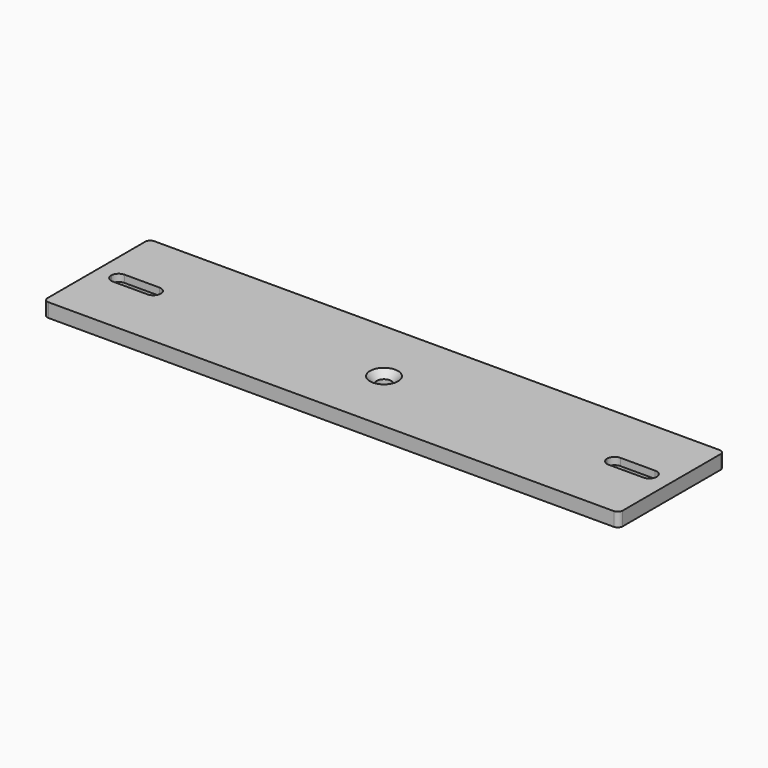
from build123d import *

# Parameters (mm, degrees)
F0_W     = 174
F0_H     = 40
F0_R     = 2.25
F1_DEPTH = 4.2
F3_DEPTH = 2
F4_SIZE  = 2
F5_R     = 1.5


with BuildPart() as f1:
    # F0 (on Top) → F1 (new body)
    with BuildSketch(Plane.XY):
        with Locations((87, 20)):
            Rectangle(F0_W, F0_H)
        with BuildLine():
            ThreePointArc((4.5, 20), (5.15901, 21.59099), (6.75, 22.25))
            Line((6.75, 22.25), (17.25, 22.25))
            ThreePointArc((17.25, 22.25), (18.84099, 21.59099), (19.5, 20))
            ThreePointArc((19.5, 20), (18.84099, 18.40901), (17.25, 17.75))
            Line((17.25, 17.75), (6.75, 17.75))
            ThreePointArc((6.75, 17.75), (5.15901, 18.40901), (4.5, 20))
        make_face(mode=Mode.SUBTRACT)
        with Locations((87, 20)):
            Circle(F0_R, mode=Mode.SUBTRACT)
        with BuildLine():
            Line((156.75, 22.25), (167.25, 22.25))
            ThreePointArc((167.25, 22.25), (168.84099, 21.59099), (169.5, 20))
            ThreePointArc((169.5, 20), (168.84099, 18.40901), (167.25, 17.75))
            Line((167.25, 17.75), (156.75, 17.75))
            ThreePointArc((156.75, 17.75), (155.15901, 18.40901), (154.5, 20))
            ThreePointArc((154.5, 20), (155.15901, 21.59099), (156.75, 22.25))
        make_face(mode=Mode.SUBTRACT)
    extrude(amount=F1_DEPTH)

    # F2 (on Top) → F3 (cut)
    with BuildSketch(Plane.XY):
        with BuildLine():
            ThreePointArc((6.75, 23.95), (2.8, 20), (6.75, 16.05))
            Line((6.75, 16.05), (17.25, 16.05))
            ThreePointArc((17.25, 16.05), (21.2, 20), (17.25, 23.95))
            Line((17.25, 23.95), (6.75, 23.95))
        make_face()
        with BuildLine():
            Line((156.75, 16.05), (167.25, 16.05))
            ThreePointArc((167.25, 16.05), (171.2, 20), (167.25, 23.95))
            Line((167.25, 23.95), (156.75, 23.95))
            ThreePointArc((156.75, 23.95), (152.8, 20), (156.75, 16.05))
        make_face()
    extrude(amount=F3_DEPTH, mode=Mode.SUBTRACT)

    # F4
    f4_edges = [f1.edges().sort_by_distance(p)[0] for p in [
        (84.75, 20, 4.2),
    ]]
    chamfer(f4_edges, length=F4_SIZE)

    # F5
    f5_edges = [f1.edges().sort_by_distance(p)[0] for p in [
        (174, 0, 2.1),
        (174, 40, 2.1),
        (0, 40, 2.1),
        (0, 0, 2.1),
    ]]
    fillet(f5_edges, radius=F5_R)


solid = f1.part
